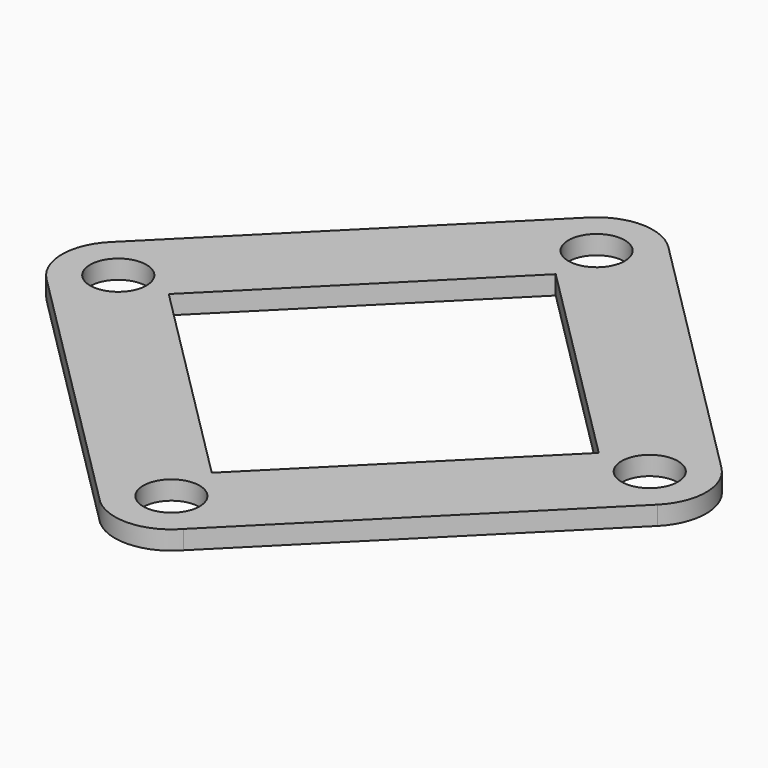
from build123d import *

# Parameters (mm, degrees)
F0_R     = 1.5
F1_DEPTH = 1


with BuildPart() as f1:
    # F0 (on Top) → F1 (new body)
    with BuildSketch(Plane.XY):
        with BuildLine():
            Line((-16.262779, -2.104933), (-2.24392, -16.123792))
            ThreePointArc((-2.24392, -16.123792), (0.000676, -17.130809), (2.245273, -16.123792))
            Line((2.245273, -16.123792), (16.264132, -2.104933))
            ThreePointArc((16.264132, -2.104933), (17.142812, 0.016388), (16.264132, 2.137708))
            Line((16.264132, 2.137708), (2.121997, 16.279844))
            ThreePointArc((2.121997, 16.279844), (0.000676, 17.158523), (-2.120644, 16.279844))
            Line((-2.120644, 16.279844), (-16.262779, 2.137708))
            ThreePointArc((-16.262779, 2.137708), (-17.141459, 0.016388), (-16.262779, -2.104933))
        make_face()
        Polygon((-11.442405, 0), (0, 11.442405), (11.442405, 0), (0, -11.442405), align=None, mode=Mode.SUBTRACT)
        with Locations((0.000676, -14.125748)):
            Circle(F0_R, mode=Mode.SUBTRACT)
        with Locations((-14.141459, 0.016388)):
            Circle(F0_R, mode=Mode.SUBTRACT)
        with Locations((0.000676, 14.158523)):
            Circle(F0_R, mode=Mode.SUBTRACT)
        with Locations((14.142812, 0.016388)):
            Circle(F0_R, mode=Mode.SUBTRACT)
    extrude(amount=F1_DEPTH)


solid = f1.part
